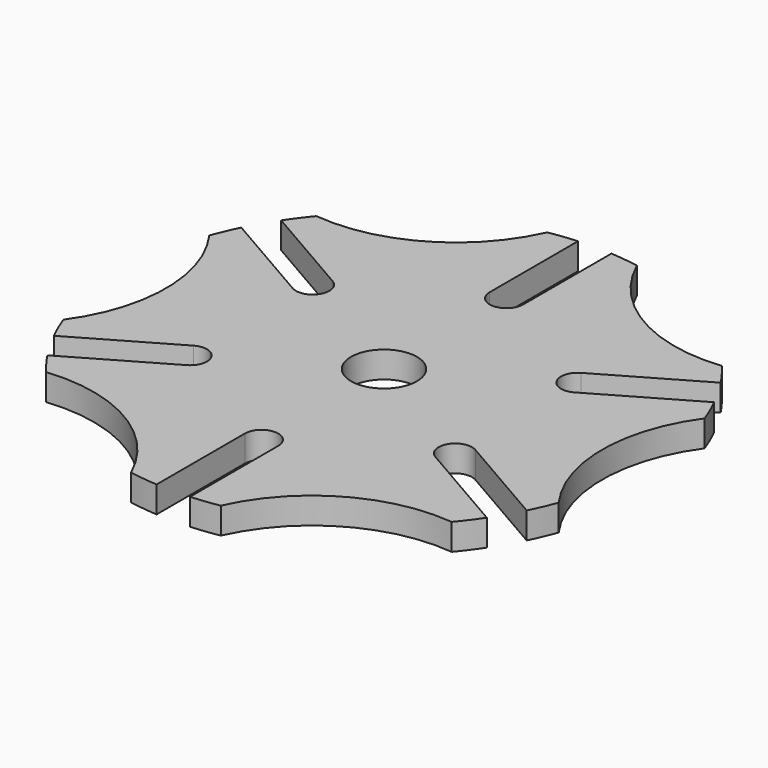
from build123d import *

# Parameters (mm, degrees)
F0_R     = 9.525
F1_DEPTH = 7.62


with BuildPart() as f1:
    # F0 (on Top) → F1 (new body)
    with BuildSketch(Plane.XY):
        with BuildLine():
            ThreePointArc((71.507275, -26.327734), (62.992, 0), (71.507275, 26.327734))
            ThreePointArc((71.507275, 26.327734), (69.990436, 30.129369), (68.271654, 33.844073))
            Line((68.271654, 33.844073), (40.687859, 17.918561))
            ThreePointArc((40.687859, 17.918561), (34.09542, 19.685), (35.861859, 26.277439))
            Line((35.861859, 26.277439), (63.445654, 42.20295))
            ThreePointArc((63.445654, 42.20295), (61.088017, 45.548811), (58.554124, 48.76325))
            ThreePointArc((58.554124, 48.76325), (31.496, 54.552672), (12.953151, 75.090984))
            ThreePointArc((12.953151, 75.090984), (8.902419, 75.67818), (4.826, 76.047023))
            Line((4.826, 76.047023), (4.826, 44.196))
            ThreePointArc((4.826, 44.196), (0, 39.37), (-4.826, 44.196))
            Line((-4.826, 44.196), (-4.826, 76.047023))
            ThreePointArc((-4.826, 76.047023), (-8.902419, 75.67818), (-12.953151, 75.090984))
            ThreePointArc((-12.953151, 75.090984), (-31.496, 54.552672), (-58.554124, 48.76325))
            ThreePointArc((-58.554124, 48.76325), (-61.088017, 45.548811), (-63.445654, 42.20295))
            Line((-63.445654, 42.20295), (-35.861859, 26.277439))
            ThreePointArc((-35.861859, 26.277439), (-34.09542, 19.685), (-40.687859, 17.918561))
            Line((-40.687859, 17.918561), (-68.271654, 33.844073))
            ThreePointArc((-68.271654, 33.844073), (-69.990436, 30.129369), (-71.507275, 26.327734))
            ThreePointArc((-71.507275, 26.327734), (-62.992, 0), (-71.507275, -26.327734))
            ThreePointArc((-71.507275, -26.327734), (-69.990436, -30.129369), (-68.271654, -33.844073))
            Line((-68.271654, -33.844073), (-40.687859, -17.918561))
            ThreePointArc((-40.687859, -17.918561), (-34.09542, -19.685), (-35.861859, -26.277439))
            Line((-35.861859, -26.277439), (-63.445654, -42.20295))
            ThreePointArc((-63.445654, -42.20295), (-61.088017, -45.548811), (-58.554124, -48.76325))
            ThreePointArc((-58.554124, -48.76325), (-31.496, -54.552672), (-12.953151, -75.090984))
            ThreePointArc((-12.953151, -75.090984), (-8.902419, -75.67818), (-4.826, -76.047023))
            Line((-4.826, -76.047023), (-4.826, -44.196))
            ThreePointArc((-4.826, -44.196), (0, -39.37), (4.826, -44.196))
            Line((4.826, -44.196), (4.826, -76.047023))
            ThreePointArc((4.826, -76.047023), (8.902419, -75.67818), (12.953151, -75.090984))
            ThreePointArc((12.953151, -75.090984), (31.496, -54.552672), (58.554124, -48.76325))
            ThreePointArc((58.554124, -48.76325), (61.088017, -45.548811), (63.445654, -42.20295))
            Line((63.445654, -42.20295), (35.861859, -26.277439))
            ThreePointArc((35.861859, -26.277439), (34.09542, -19.685), (40.687859, -17.918561))
            Line((40.687859, -17.918561), (68.271654, -33.844073))
            ThreePointArc((68.271654, -33.844073), (69.990436, -30.129369), (71.507275, -26.327734))
        make_face()
        Circle(F0_R, mode=Mode.SUBTRACT)
    extrude(amount=F1_DEPTH)


solid = f1.part
